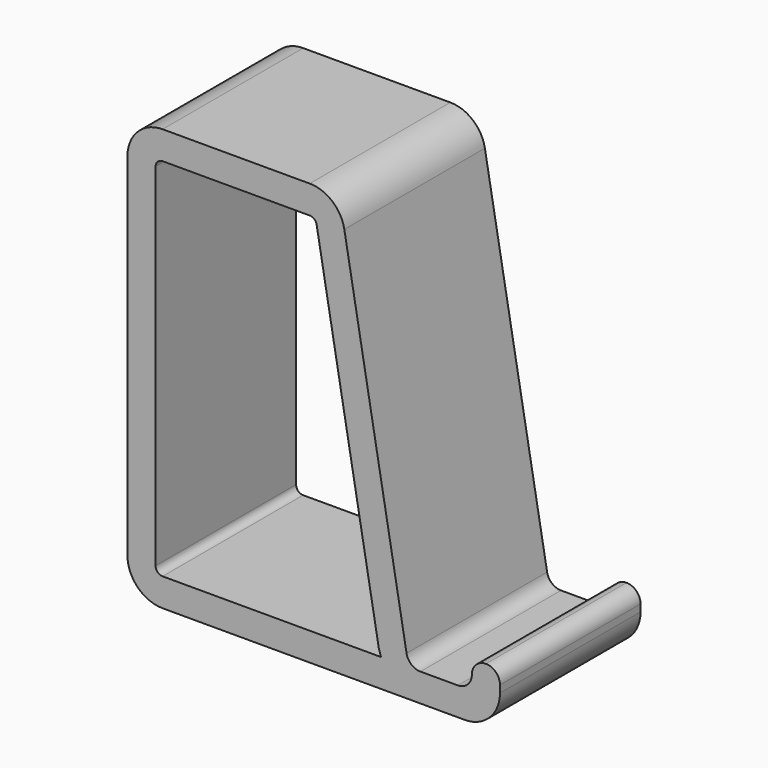
from build123d import *

# Parameters (mm, degrees)
F1_DEPTH = 25


with BuildPart() as f1:
    # F0 (on Front) → F1 (new body)
    with BuildSketch(Plane.XZ):
        with BuildLine():
            ThreePointArc((-66.516432, -163.946287), (-65.051966, -167.481821), (-61.516432, -168.946287))
            Line((-61.516432, -168.946287), (-18.516432, -168.946287))
            ThreePointArc((-18.516432, -168.946287), (-14.980898, -167.481821), (-13.516432, -163.946287))
            Line((-13.516432, -163.946287), (-13.516432, -162.946287))
            ThreePointArc((-13.516432, -162.946287), (-14.102218, -161.532073), (-15.516432, -160.946287))
            ThreePointArc((-15.516432, -160.946287), (-16.930645, -161.532073), (-17.516432, -162.946287))
            ThreePointArc((-17.516432, -162.946287), (-18.102218, -164.3605), (-19.516432, -164.946287))
            Line((-19.516432, -164.946287), (-24.838233, -164.946287))
            ThreePointArc((-24.838233, -164.946287), (-26.123808, -164.478376), (-26.807848, -163.293583))
            Line((-26.807848, -163.293583), (-35.662202, -113.078046))
            ThreePointArc((-35.662202, -113.078046), (-37.372303, -110.116065), (-40.586241, -108.946287))
            Line((-40.586241, -108.946287), (-61.516432, -108.946287))
            ThreePointArc((-61.516432, -108.946287), (-65.051966, -110.410753), (-66.516432, -113.946287))
            Line((-66.516432, -113.946287), (-66.516432, -163.946287))
        make_face()
        with BuildLine():
            Line((-39.601433, -113.772639), (-30.747079, -163.988176))
            Line((-30.747079, -163.988176), (-30.448126, -164.946287))
            Line((-30.448126, -164.946287), (-61.516432, -164.946287))
            ThreePointArc((-61.516432, -164.946287), (-62.223539, -164.653394), (-62.516432, -163.946287))
            Line((-62.516432, -163.946287), (-62.516432, -113.946287))
            ThreePointArc((-62.516432, -113.946287), (-62.223539, -113.23918), (-61.516432, -112.946287))
            Line((-61.516432, -112.946287), (-40.586241, -112.946287))
            ThreePointArc((-40.586241, -112.946287), (-39.943453, -113.180242), (-39.601433, -113.772639))
        make_face(mode=Mode.SUBTRACT)
    extrude(amount=F1_DEPTH)


solid = f1.part
